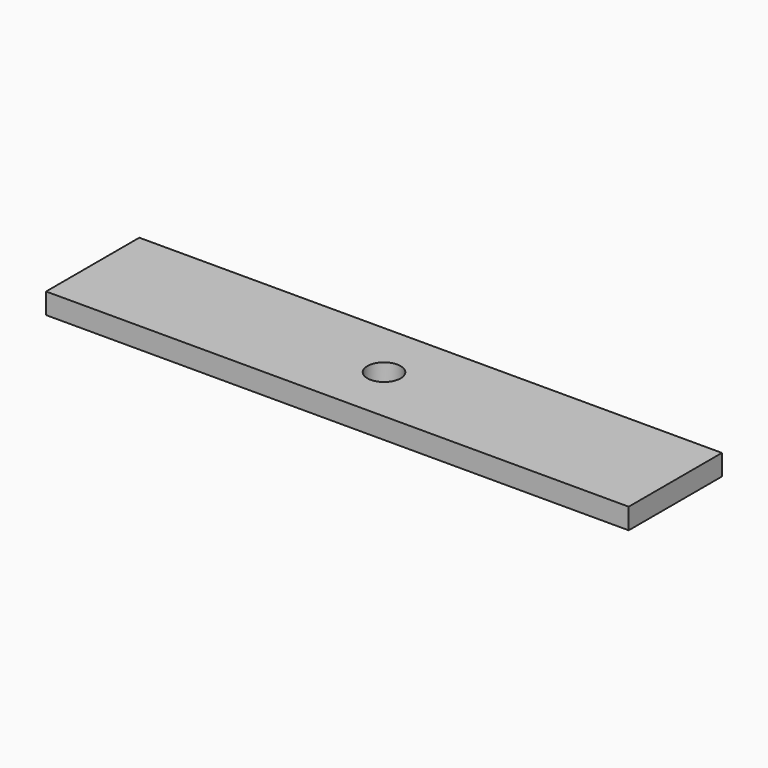
from build123d import *

# Parameters (mm, degrees)
BOX_W          = 70
BOX_H          = 14
BOX_DEPTH      = 2.5
CYLINDER_R     = 2
CYLINDER_DEPTH = 3.5


with BuildPart() as part:
    # Box → Box (join)
    with BuildSketch(Plane.XY):
        with Locations((35, 7)):
            Rectangle(BOX_W, BOX_H)
    extrude(amount=BOX_DEPTH)

    # Cylinder → Cylinder (cut)
    with BuildSketch(Plane(origin=(35, 7, -1), x_dir=(1, 0, 0), z_dir=(0, 0, 1))):
        Circle(CYLINDER_R)
    extrude(amount=CYLINDER_DEPTH, mode=Mode.SUBTRACT)


solid = part.part
